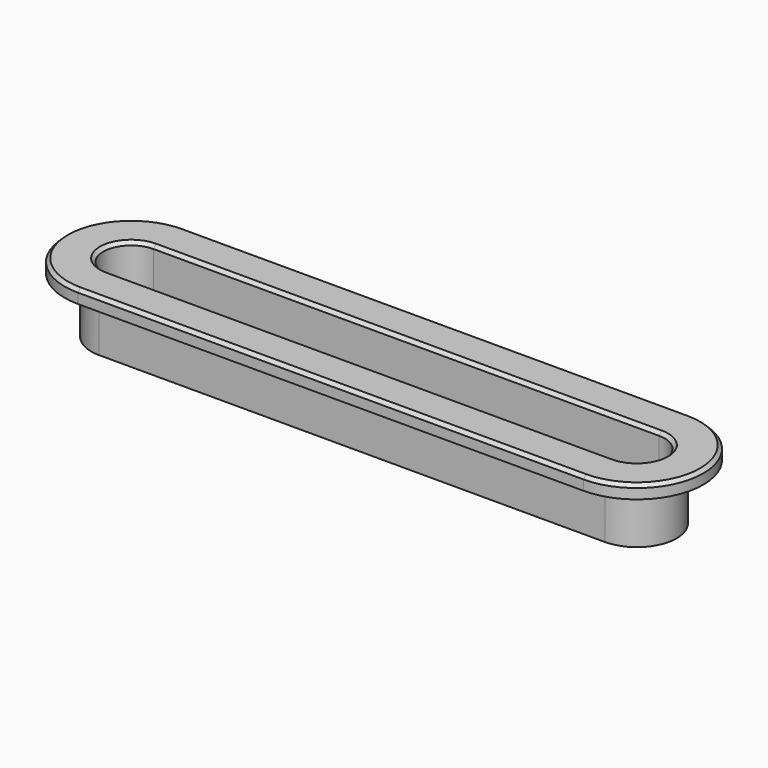
from build123d import *

# Parameters (mm, degrees)
F1_DEPTH = 4.2
F3_DEPTH = 1
F5_DEPTH = 5.201
F6_SIZE  = 0.25


with BuildPart() as f1:
    # F0 (on Top) → F1 (new body)
    with BuildSketch(Plane.XY):
        with BuildLine():
            Line((19, 3), (-19, 3))
            ThreePointArc((-19, 3), (-22, 0), (-19, -3))
            Line((-19, -3), (19, -3))
            ThreePointArc((19, -3), (22, 0), (19, 3))
        make_face()
    extrude(amount=-F1_DEPTH)

    # F2 (on face) → F3 (join)
    with BuildSketch(Plane.XY):
        with BuildLine():
            ThreePointArc((-19, 5), (-24, 0), (-19, -5))
            Line((-19, -5), (19, -5))
            ThreePointArc((19, -5), (24, 0), (19, 5))
            Line((19, 5), (-19, 5))
        make_face()
    extrude(amount=F3_DEPTH)

    # F4 (on face) → F5 (cut, through all)
    with BuildSketch(Plane.XY.offset(1)):
        with BuildLine():
            Line((-19, -2.1), (19, -2.1))
            ThreePointArc((19, -2.1), (21.1, 0), (19, 2.1))
            Line((19, 2.1), (-19, 2.1))
            ThreePointArc((-19, 2.1), (-21.1, 0), (-19, -2.1))
        make_face()
    extrude(amount=-F5_DEPTH, mode=Mode.SUBTRACT)

    # F6
    f6_edges = [f1.edges().sort_by_distance(p)[0] for p in [
        (-24, 0, 1),
        (0, 5, 1),
        (0, -5, 1),
        (24, 0, 1),
        (0, -2.1, 1),
        (21.1, 0, 1),
        (0, 2.1, 1),
        (-21.1, 0, 1),
    ]]
    chamfer(f6_edges, length=F6_SIZE)


solid = f1.part
